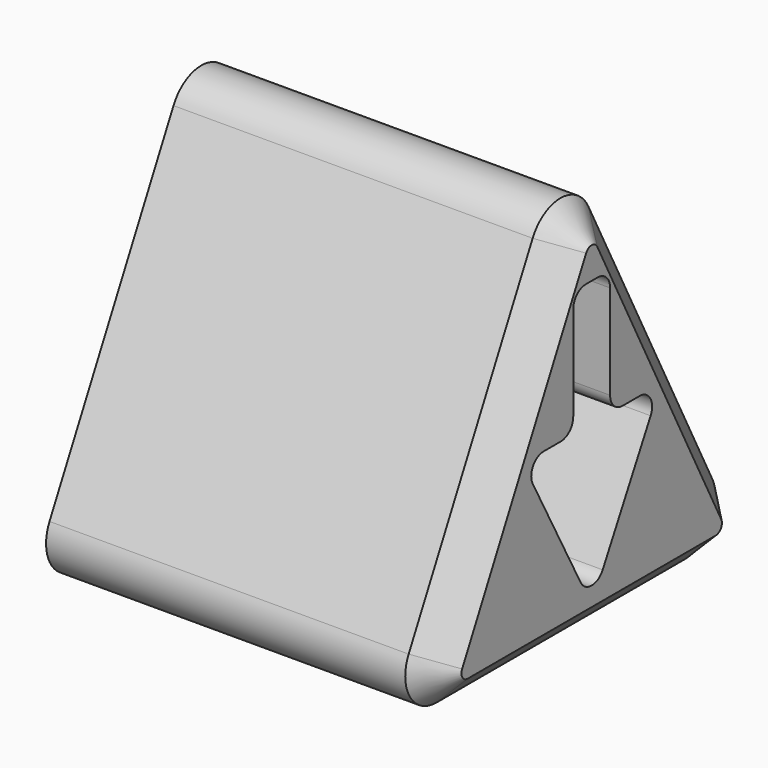
from build123d import *

# Parameters (mm, degrees)
F1_DEPTH = 63.5
F2_SIZE  = 5.08


with BuildPart() as f1:
    # F0 (on Right) → F1 (new body)
    with BuildSketch(Plane.YZ):
        with BuildLine():
            ThreePointArc((-30.862735, 9.241248), (-30.625866, 3.03616), (-25.209136, 0))
            Line((-25.209136, 0), (25.209136, 0))
            ThreePointArc((25.209136, 0), (30.625866, 3.03616), (30.862735, 9.241248))
            Line((30.862735, 9.241248), (5.653599, 58.535651))
            ThreePointArc((5.653599, 58.535651), (0, 61.994403), (-5.653599, 58.535651))
            Line((-5.653599, 58.535651), (-30.862735, 9.241248))
        make_face()
        with BuildLine():
            ThreePointArc((2.236106, 9.505495), (0, 8.170248), (-2.236106, 9.505495))
            Line((-2.236106, 9.505495), (-11.986921, 27.603697))
            ThreePointArc((-11.986921, 27.603697), (-11.931603, 30.110665), (-9.750815, 31.348449))
            Line((-9.750815, 31.348449), (-6.28835, 31.348449))
            ThreePointArc((-6.28835, 31.348449), (-4.492299, 32.092398), (-3.74835, 33.888449))
            Line((-3.74835, 33.888449), (-3.74835, 49.257109))
            ThreePointArc((-3.74835, 49.257109), (-3.004401, 51.05316), (-1.20835, 51.797109))
            Line((-1.20835, 51.797109), (1.20835, 51.797109))
            ThreePointArc((1.20835, 51.797109), (3.004401, 51.05316), (3.74835, 49.257109))
            Line((3.74835, 49.257109), (3.74835, 33.888449))
            ThreePointArc((3.74835, 33.888449), (4.492299, 32.092398), (6.28835, 31.348449))
            Line((6.28835, 31.348449), (9.750815, 31.348449))
            ThreePointArc((9.750815, 31.348449), (11.931603, 30.110665), (11.986921, 27.603697))
            Line((11.986921, 27.603697), (2.236106, 9.505495))
        make_face(mode=Mode.SUBTRACT)
    extrude(amount=F1_DEPTH)

    # F2
    f2_edges = [f1.edges().sort_by_distance(p)[0] for p in [
        (63.5, 0, 0),
    ]]
    chamfer(f2_edges, length=F2_SIZE)


solid = f1.part
